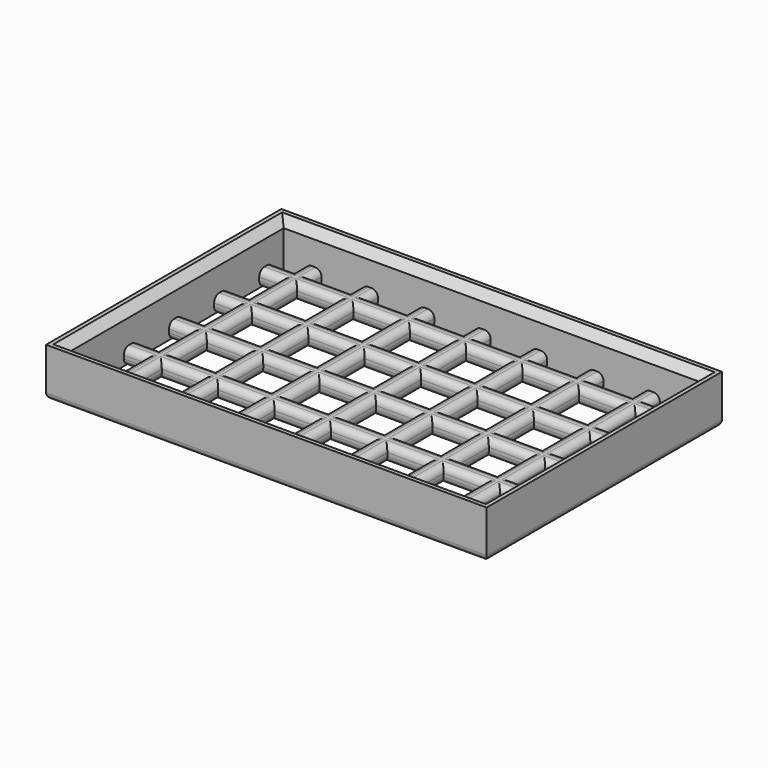
from build123d import *

# Parameters (mm, degrees)
F0_W     = 54.7
F0_H     = 36.5
F1_DEPTH = 2
F2_W     = 5
F2_H     = 5
F2_W_2   = 4.15
F3_DEPTH = 2.001
F5_R     = 0.8
F4_W     = 54.7
F4_H     = 36.5
F4_W_2   = 51.7
F4_H_2   = 33.5
F6_DEPTH = 6
F7_R     = 0.75
F8_SIZE  = 1


with BuildPart() as f1:
    # F0 (on Top) → F1 (new body)
    with BuildSketch(Plane.XY):
        with Locations((27.35, 18.25)):
            Rectangle(F0_W, F0_H)
    extrude(amount=-F1_DEPTH)

    # F2 (on face) → F3 (cut, through all)
    with BuildSketch(Plane.XY):
        with Locations((1.7, 35.7)):
            Rectangle(F2_W, F2_H)
        with Locations((1.7, 28.7)):
            Rectangle(F2_W, F2_H)
        with Locations((1.7, 21.7)):
            Rectangle(F2_W, F2_H)
        with Locations((1.7, 14.7)):
            Rectangle(F2_W, F2_H)
        with Locations((1.7, 7.7)):
            Rectangle(F2_W, F2_H)
        with Locations((1.7, 0.7)):
            Rectangle(F2_W, F2_H)
        with Locations((8.7, 35.7)):
            Rectangle(F2_W, F2_H)
        with Locations((8.7, 28.7)):
            Rectangle(F2_W, F2_H)
        with Locations((8.7, 21.7)):
            Rectangle(F2_W, F2_H)
        with Locations((8.7, 14.7)):
            Rectangle(F2_W, F2_H)
        with Locations((8.7, 7.7)):
            Rectangle(F2_W, F2_H)
        with Locations((8.7, 0.7)):
            Rectangle(F2_W, F2_H)
        with Locations((15.7, 35.7)):
            Rectangle(F2_W, F2_H)
        with Locations((15.7, 28.7)):
            Rectangle(F2_W, F2_H)
        with Locations((15.7, 21.7)):
            Rectangle(F2_W, F2_H)
        with Locations((15.7, 14.7)):
            Rectangle(F2_W, F2_H)
        with Locations((15.7, 7.7)):
            Rectangle(F2_W, F2_H)
        with Locations((15.7, 0.7)):
            Rectangle(F2_W, F2_H)
        with Locations((22.7, 35.7)):
            Rectangle(F2_W, F2_H)
        with Locations((22.7, 28.7)):
            Rectangle(F2_W, F2_H)
        with Locations((22.7, 21.7)):
            Rectangle(F2_W, F2_H)
        with Locations((22.7, 14.7)):
            Rectangle(F2_W, F2_H)
        with Locations((22.7, 7.7)):
            Rectangle(F2_W, F2_H)
        with Locations((22.7, 0.7)):
            Rectangle(F2_W, F2_H)
        with Locations((29.7, 35.7)):
            Rectangle(F2_W, F2_H)
        with Locations((29.7, 28.7)):
            Rectangle(F2_W, F2_H)
        with Locations((29.7, 21.7)):
            Rectangle(F2_W, F2_H)
        with Locations((29.7, 14.7)):
            Rectangle(F2_W, F2_H)
        with Locations((29.7, 7.7)):
            Rectangle(F2_W, F2_H)
        with Locations((29.7, 0.7)):
            Rectangle(F2_W, F2_H)
        with Locations((36.7, 35.7)):
            Rectangle(F2_W, F2_H)
        with Locations((36.7, 28.7)):
            Rectangle(F2_W, F2_H)
        with Locations((36.7, 21.7)):
            Rectangle(F2_W, F2_H)
        with Locations((36.7, 14.7)):
            Rectangle(F2_W, F2_H)
        with Locations((36.7, 7.7)):
            Rectangle(F2_W, F2_H)
        with Locations((36.7, 0.7)):
            Rectangle(F2_W, F2_H)
        with Locations((43.7, 35.7)):
            Rectangle(F2_W, F2_H)
        with Locations((43.7, 28.7)):
            Rectangle(F2_W, F2_H)
        with Locations((43.7, 21.7)):
            Rectangle(F2_W, F2_H)
        with Locations((43.7, 14.7)):
            Rectangle(F2_W, F2_H)
        with Locations((43.7, 7.7)):
            Rectangle(F2_W, F2_H)
        with Locations((43.7, 0.7)):
            Rectangle(F2_W, F2_H)
        with Locations((50.7, 35.7)):
            Rectangle(F2_W, F2_H)
        with Locations((55.275, 35.7)):
            Rectangle(F2_W_2, F2_H)
        with Locations((50.7, 28.7)):
            Rectangle(F2_W, F2_H)
        with Locations((55.275, 28.7)):
            Rectangle(F2_W_2, F2_H)
        with Locations((50.7, 21.7)):
            Rectangle(F2_W, F2_H)
        with Locations((55.275, 21.7)):
            Rectangle(F2_W_2, F2_H)
        with Locations((50.7, 14.7)):
            Rectangle(F2_W, F2_H)
        with Locations((55.275, 14.7)):
            Rectangle(F2_W_2, F2_H)
        with Locations((50.7, 7.7)):
            Rectangle(F2_W, F2_H)
        with Locations((55.275, 7.7)):
            Rectangle(F2_W_2, F2_H)
        with Locations((50.7, 0.7)):
            Rectangle(F2_W, F2_H)
        with Locations((55.275, 0.7)):
            Rectangle(F2_W_2, F2_H)
    extrude(amount=-F3_DEPTH, mode=Mode.SUBTRACT)

    # F5
    f5_edges = [f1.edges().sort_by_distance(p)[0] for p in [
        (48.2, 34.85, 0),
        (51.45, 33.2, 0),
        (54.7, 32.2, 0),
        (51.45, 31.2, 0),
        (48.2, 28.7, 0),
        (51.45, 26.2, 0),
        (54.7, 25.2, 0),
        (51.45, 24.2, 0),
        (48.2, 21.7, 0),
        (51.45, 19.2, 0),
        (54.7, 18.2, 0),
        (51.45, 17.2, 0),
        (48.2, 14.7, 0),
        (51.45, 12.2, 0),
        (54.7, 11.2, 0),
        (51.45, 10.2, 0),
        (48.2, 7.7, 0),
        (51.45, 5.2, 0),
        (54.7, 4.2, 0),
        (51.45, 3.2, 0),
        (48.2, 1.6, 0),
        (47.2, 0, 0),
        (46.2, 1.6, 0),
        (43.7, 3.2, 0),
        (41.2, 1.6, 0),
        (40.2, 0, 0),
        (39.2, 1.6, 0),
        (36.7, 3.2, 0),
        (34.2, 1.6, 0),
        (33.2, 0, 0),
        (32.2, 1.6, 0),
        (29.7, 3.2, 0),
        (27.2, 1.6, 0),
        (26.2, 0, 0),
        (25.2, 1.6, 0),
        (22.7, 3.2, 0),
        (20.2, 1.6, 0),
        (19.2, 0, 0),
        (18.2, 1.6, 0),
        (15.7, 3.2, 0),
        (13.2, 1.6, 0),
        (12.2, 0, 0),
        (11.2, 1.6, 0),
        (8.7, 3.2, 0),
        (6.2, 1.6, 0),
        (5.2, 0, 0),
        (4.2, 1.6, 0),
        (2.1, 3.2, 0),
        (0, 4.2, 0),
        (2.1, 5.2, 0),
        (4.2, 7.7, 0),
        (2.1, 10.2, 0),
        (0, 11.2, 0),
        (2.1, 12.2, 0),
        (4.2, 14.7, 0),
        (2.1, 17.2, 0),
        (0, 18.2, 0),
        (2.1, 19.2, 0),
        (4.2, 21.7, 0),
        (2.1, 24.2, 0),
        (0, 25.2, 0),
        (2.1, 26.2, 0),
        (4.2, 28.7, 0),
        (2.1, 31.2, 0),
        (0, 32.2, 0),
        (2.1, 33.2, 0),
        (4.2, 34.85, 0),
        (5.2, 36.5, 0),
        (6.2, 34.85, 0),
        (8.7, 33.2, 0),
        (11.2, 34.85, 0),
        (12.2, 36.5, 0),
        (13.2, 34.85, 0),
        (15.7, 33.2, 0),
        (18.2, 34.85, 0),
        (19.2, 36.5, 0),
        (20.2, 34.85, 0),
        (22.7, 33.2, 0),
        (25.2, 34.85, 0),
        (26.2, 36.5, 0),
        (27.2, 34.85, 0),
        (29.7, 33.2, 0),
        (32.2, 34.85, 0),
        (33.2, 36.5, 0),
        (34.2, 34.85, 0),
        (36.7, 33.2, 0),
        (39.2, 34.85, 0),
        (40.2, 36.5, 0),
        (41.2, 34.85, 0),
        (43.7, 33.2, 0),
        (46.2, 34.85, 0),
        (47.2, 36.5, 0),
        (8.7, 10.2, 0),
        (6.2, 7.7, 0),
        (8.7, 5.2, 0),
        (11.2, 7.7, 0),
        (15.7, 10.2, 0),
        (13.2, 7.7, 0),
        (15.7, 5.2, 0),
        (18.2, 7.7, 0),
        (22.7, 10.2, 0),
        (20.2, 7.7, 0),
        (22.7, 5.2, 0),
        (25.2, 7.7, 0),
        (8.7, 17.2, 0),
        (6.2, 14.7, 0),
        (8.7, 12.2, 0),
        (11.2, 14.7, 0),
        (15.7, 17.2, 0),
        (13.2, 14.7, 0),
        (15.7, 12.2, 0),
        (18.2, 14.7, 0),
        (22.7, 17.2, 0),
        (20.2, 14.7, 0),
        (22.7, 12.2, 0),
        (25.2, 14.7, 0),
        (29.7, 10.2, 0),
        (27.2, 7.7, 0),
        (29.7, 5.2, 0),
        (32.2, 7.7, 0),
        (36.7, 10.2, 0),
        (34.2, 7.7, 0),
        (36.7, 5.2, 0),
        (39.2, 7.7, 0),
        (43.7, 10.2, 0),
        (41.2, 7.7, 0),
        (43.7, 5.2, 0),
        (46.2, 7.7, 0),
        (29.7, 17.2, 0),
        (27.2, 14.7, 0),
        (29.7, 12.2, 0),
        (32.2, 14.7, 0),
        (36.7, 17.2, 0),
        (34.2, 14.7, 0),
        (36.7, 12.2, 0),
        (39.2, 14.7, 0),
        (43.7, 17.2, 0),
        (41.2, 14.7, 0),
        (43.7, 12.2, 0),
        (46.2, 14.7, 0),
        (8.7, 24.2, 0),
        (6.2, 21.7, 0),
        (8.7, 19.2, 0),
        (11.2, 21.7, 0),
        (15.7, 24.2, 0),
        (13.2, 21.7, 0),
        (15.7, 19.2, 0),
        (18.2, 21.7, 0),
        (22.7, 24.2, 0),
        (20.2, 21.7, 0),
        (22.7, 19.2, 0),
        (25.2, 21.7, 0),
        (8.7, 31.2, 0),
        (6.2, 28.7, 0),
        (8.7, 26.2, 0),
        (11.2, 28.7, 0),
        (15.7, 31.2, 0),
        (13.2, 28.7, 0),
        (15.7, 26.2, 0),
        (18.2, 28.7, 0),
        (22.7, 31.2, 0),
        (20.2, 28.7, 0),
        (22.7, 26.2, 0),
        (25.2, 28.7, 0),
        (29.7, 24.2, 0),
        (27.2, 21.7, 0),
        (29.7, 19.2, 0),
        (32.2, 21.7, 0),
        (36.7, 24.2, 0),
        (34.2, 21.7, 0),
        (36.7, 19.2, 0),
        (39.2, 21.7, 0),
        (43.7, 24.2, 0),
        (41.2, 21.7, 0),
        (43.7, 19.2, 0),
        (46.2, 21.7, 0),
        (29.7, 31.2, 0),
        (27.2, 28.7, 0),
        (29.7, 26.2, 0),
        (32.2, 28.7, 0),
        (36.7, 31.2, 0),
        (34.2, 28.7, 0),
        (36.7, 26.2, 0),
        (39.2, 28.7, 0),
        (43.7, 31.2, 0),
        (41.2, 28.7, 0),
        (43.7, 26.2, 0),
        (46.2, 28.7, 0),
        (48.2, 34.85, -2),
        (51.45, 33.2, -2),
        (54.7, 32.2, -2),
        (51.45, 31.2, -2),
        (48.2, 28.7, -2),
        (51.45, 26.2, -2),
        (54.7, 25.2, -2),
        (51.45, 24.2, -2),
        (48.2, 21.7, -2),
        (51.45, 19.2, -2),
        (54.7, 18.2, -2),
        (51.45, 17.2, -2),
        (48.2, 14.7, -2),
        (51.45, 12.2, -2),
        (54.7, 11.2, -2),
        (51.45, 10.2, -2),
        (48.2, 7.7, -2),
        (51.45, 5.2, -2),
        (54.7, 4.2, -2),
        (51.45, 3.2, -2),
        (48.2, 1.6, -2),
        (47.2, 0, -2),
        (46.2, 1.6, -2),
        (43.7, 3.2, -2),
        (41.2, 1.6, -2),
        (40.2, 0, -2),
        (39.2, 1.6, -2),
        (36.7, 3.2, -2),
        (34.2, 1.6, -2),
        (33.2, 0, -2),
        (32.2, 1.6, -2),
        (29.7, 3.2, -2),
        (27.2, 1.6, -2),
        (26.2, 0, -2),
        (25.2, 1.6, -2),
        (22.7, 3.2, -2),
        (20.2, 1.6, -2),
        (19.2, 0, -2),
        (18.2, 1.6, -2),
        (15.7, 3.2, -2),
        (13.2, 1.6, -2),
        (12.2, 0, -2),
        (11.2, 1.6, -2),
        (8.7, 3.2, -2),
        (6.2, 1.6, -2),
        (5.2, 0, -2),
        (4.2, 1.6, -2),
        (2.1, 3.2, -2),
        (0, 4.2, -2),
        (2.1, 5.2, -2),
        (4.2, 7.7, -2),
        (2.1, 10.2, -2),
        (0, 11.2, -2),
        (2.1, 12.2, -2),
        (4.2, 14.7, -2),
        (2.1, 17.2, -2),
        (0, 18.2, -2),
        (2.1, 19.2, -2),
        (4.2, 21.7, -2),
        (2.1, 24.2, -2),
        (0, 25.2, -2),
        (2.1, 26.2, -2),
        (4.2, 28.7, -2),
        (2.1, 31.2, -2),
        (0, 32.2, -2),
        (2.1, 33.2, -2),
        (4.2, 34.85, -2),
        (5.2, 36.5, -2),
        (6.2, 34.85, -2),
        (8.7, 33.2, -2),
        (11.2, 34.85, -2),
        (12.2, 36.5, -2),
        (13.2, 34.85, -2),
        (15.7, 33.2, -2),
        (18.2, 34.85, -2),
        (19.2, 36.5, -2),
        (20.2, 34.85, -2),
        (22.7, 33.2, -2),
        (25.2, 34.85, -2),
        (26.2, 36.5, -2),
        (27.2, 34.85, -2),
        (29.7, 33.2, -2),
        (32.2, 34.85, -2),
        (33.2, 36.5, -2),
        (34.2, 34.85, -2),
        (36.7, 33.2, -2),
        (39.2, 34.85, -2),
        (40.2, 36.5, -2),
        (41.2, 34.85, -2),
        (43.7, 33.2, -2),
        (46.2, 34.85, -2),
        (47.2, 36.5, -2),
        (8.7, 10.2, -2),
        (6.2, 7.7, -2),
        (8.7, 5.2, -2),
        (11.2, 7.7, -2),
        (15.7, 10.2, -2),
        (13.2, 7.7, -2),
        (15.7, 5.2, -2),
        (18.2, 7.7, -2),
        (22.7, 10.2, -2),
        (20.2, 7.7, -2),
        (22.7, 5.2, -2),
        (25.2, 7.7, -2),
        (8.7, 17.2, -2),
        (6.2, 14.7, -2),
        (8.7, 12.2, -2),
        (11.2, 14.7, -2),
        (15.7, 17.2, -2),
        (13.2, 14.7, -2),
        (15.7, 12.2, -2),
        (18.2, 14.7, -2),
        (22.7, 17.2, -2),
        (20.2, 14.7, -2),
        (22.7, 12.2, -2),
        (25.2, 14.7, -2),
        (29.7, 10.2, -2),
        (27.2, 7.7, -2),
        (29.7, 5.2, -2),
        (32.2, 7.7, -2),
        (36.7, 10.2, -2),
        (34.2, 7.7, -2),
        (36.7, 5.2, -2),
        (39.2, 7.7, -2),
        (43.7, 10.2, -2),
        (41.2, 7.7, -2),
        (43.7, 5.2, -2),
        (46.2, 7.7, -2),
        (29.7, 17.2, -2),
        (27.2, 14.7, -2),
        (29.7, 12.2, -2),
        (32.2, 14.7, -2),
        (36.7, 17.2, -2),
        (34.2, 14.7, -2),
        (36.7, 12.2, -2),
        (39.2, 14.7, -2),
        (43.7, 17.2, -2),
        (41.2, 14.7, -2),
        (43.7, 12.2, -2),
        (46.2, 14.7, -2),
        (8.7, 24.2, -2),
        (6.2, 21.7, -2),
        (8.7, 19.2, -2),
        (11.2, 21.7, -2),
        (15.7, 24.2, -2),
        (13.2, 21.7, -2),
        (15.7, 19.2, -2),
        (18.2, 21.7, -2),
        (22.7, 24.2, -2),
        (20.2, 21.7, -2),
        (22.7, 19.2, -2),
        (25.2, 21.7, -2),
        (8.7, 31.2, -2),
        (6.2, 28.7, -2),
        (8.7, 26.2, -2),
        (11.2, 28.7, -2),
        (15.7, 31.2, -2),
        (13.2, 28.7, -2),
        (15.7, 26.2, -2),
        (18.2, 28.7, -2),
        (22.7, 31.2, -2),
        (20.2, 28.7, -2),
        (22.7, 26.2, -2),
        (25.2, 28.7, -2),
        (29.7, 24.2, -2),
        (27.2, 21.7, -2),
        (29.7, 19.2, -2),
        (32.2, 21.7, -2),
        (36.7, 24.2, -2),
        (34.2, 21.7, -2),
        (36.7, 19.2, -2),
        (39.2, 21.7, -2),
        (43.7, 24.2, -2),
        (41.2, 21.7, -2),
        (43.7, 19.2, -2),
        (46.2, 21.7, -2),
        (29.7, 31.2, -2),
        (27.2, 28.7, -2),
        (29.7, 26.2, -2),
        (32.2, 28.7, -2),
        (36.7, 31.2, -2),
        (34.2, 28.7, -2),
        (36.7, 26.2, -2),
        (39.2, 28.7, -2),
        (43.7, 31.2, -2),
        (41.2, 28.7, -2),
        (43.7, 26.2, -2),
        (46.2, 28.7, -2),
    ]]
    fillet(f5_edges, radius=F5_R)

    # F4 (on face) → F6 (join)
    with BuildSketch(Plane(origin=(0, 0, -2), x_dir=(1, 0, 0), z_dir=(0, 0, -1))):
        with Locations((27.35, -18.25)):
            Rectangle(F4_W, F4_H)
        with Locations((27.35, -18.25)):
            Rectangle(F4_W_2, F4_H_2, mode=Mode.SUBTRACT)
    extrude(amount=-F6_DEPTH)

    # F7
    f7_edges = [f1.edges().sort_by_distance(p)[0] for p in [
        (0, 18.25, -2),
        (27.35, 0, -2),
        (54.7, 18.25, -2),
        (27.35, 36.5, -2),
    ]]
    fillet(f7_edges, radius=F7_R)

    # F8
    f8_edges = [f1.edges().sort_by_distance(p)[0] for p in [
        (27.35, 35, 4),
        (1.5, 18.25, 4),
        (27.35, 1.5, 4),
        (53.2, 18.25, 4),
    ]]
    chamfer(f8_edges, length=F8_SIZE)


solid = f1.part
